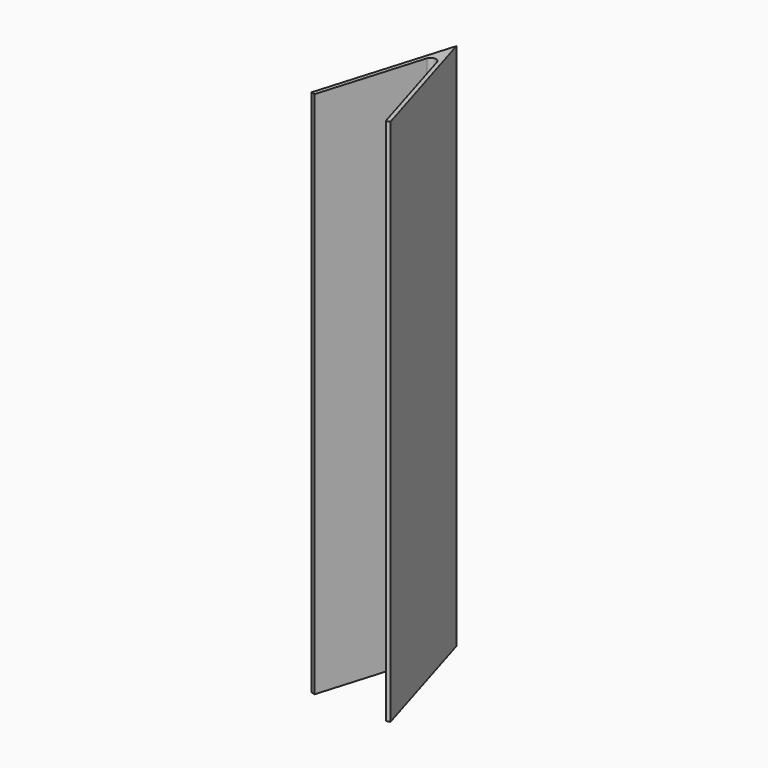
from build123d import *

# Parameters (mm, degrees)
F1_DEPTH = 100


with BuildPart() as f1:
    # F0 (on Top) → F1 (new body, symmetric)
    with BuildSketch(Plane.XY):
        with BuildLine():
            Line((15, -8.853287), (-0.05791, 41.146713))
            Line((-0.05791, 41.146713), (-15, -8.660254))
            Line((-15, -8.660254), (-13.563261, -9.091276))
            Line((-13.563261, -9.091276), (-1.967105, 29.562577))
            ThreePointArc((-1.967105, 29.562577), (-0.052514, 30.987881), (1.863589, 29.564611))
            Line((1.863589, 29.564611), (13.56326, -9.284309))
            Line((13.56326, -9.284309), (15, -8.853287))
        make_face()
    extrude(amount=F1_DEPTH, both=True)


solid = f1.part
